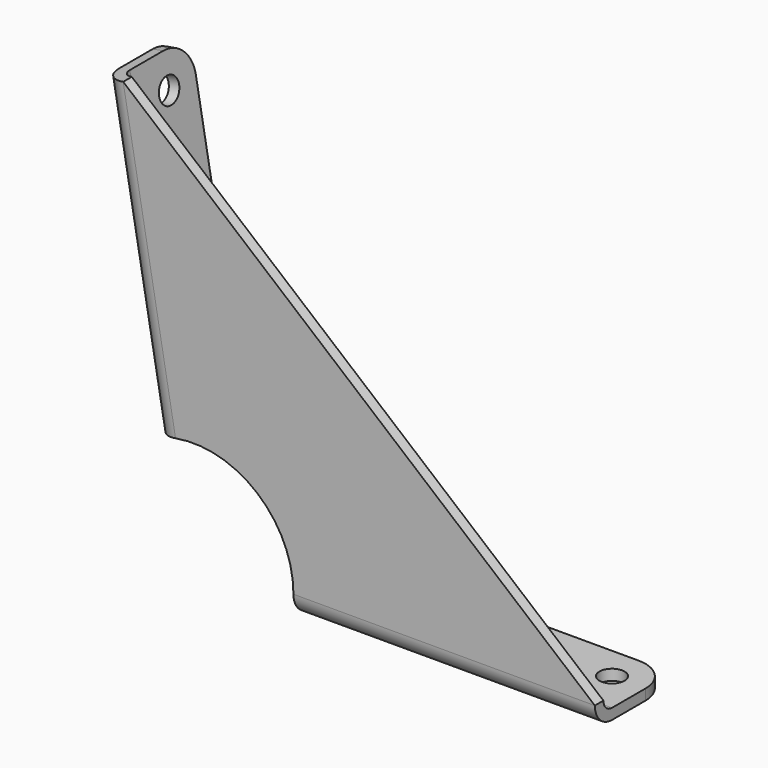
from build123d import *

# Parameters (mm, degrees)
F1_DEPTH    = 2.032
F2_W        = 57.15
F2_H        = 2.032
F3_ANGLE    = 90
F4_W        = 2.032
F4_H        = 57.15
F5_ANGLE    = 90
F6_DEPTH    = 14.2875
F7_R        = 6.35
F10_D       = 4.7625
F10_ON_F8_D = 4.7625


with BuildPart() as f1:
    # F0 (on Front) → F1 (new body)
    with BuildSketch(Plane.XZ):
        with BuildLine():
            Line((-13.2319911382, 75.0423507795), (-3.3079977846, 18.7605876949))
            ThreePointArc((-3.3079977846, 18.7605876949), (12.2451039645, 14.5931466414), (19.05, 0))
            Line((19.05, 0), (76.2, 0))
            Line((76.2, 0), (-13.2319911382, 75.0423507795))
        make_face()
    extrude(amount=F1_DEPTH)

    # F2 (on face) → F3 (revolve)
    with BuildSketch(Plane(origin=(0, 0, 0), x_dir=(1, 0, 0), z_dir=(0, 0, -1))):
        with Locations((47.625, 1.016)):
            Rectangle(F2_W, F2_H)
    revolve(axis=Axis((40.305102244, 2.032, 0), (1, 0, 0)), revolution_arc=F3_ANGLE)

    # F4 (on face) → F5 (revolve)
    with BuildSketch(Plane(origin=(0, 0, 0), x_dir=(0, -1, 0), z_dir=(-0.984807753, 0, -0.1736481777))):
        with Locations((1.016, 47.625)):
            Rectangle(F4_W, F4_H)
    revolve(axis=Axis((-5.7906206967, 2.032, 32.8402418815), (0.1736481777, 0, -0.984807753)), revolution_arc=F5_ANGLE)

    # F6 (add): faces of the model
    f6_faces = [f1.faces().sort_by_distance(p)[0] for p in [
        (47.625, 2.032, -3.048),
        (-11.2716884926, 2.032, 46.3721895917),
    ]]
    extrude(f6_faces, amount=F6_DEPTH)

    # F7
    f7_edges = [f1.edges().sort_by_distance(p)[0] for p in [
        (-16.233685, 16.3195, 74.513071),
        (-6.309692, 16.3195, 18.231308),
        (19.05, 16.3195, -3.048),
        (76.2, 16.3195, -3.048),
    ]]
    fillet(f7_edges, radius=F7_R)

    # F10 (through all)
    with Locations(Plane.XY.offset(-2.032)):
        with Locations((25.4, 9.9695), (69.85, 9.9695)):
            Hole(F10_D / 2)

    # F10 on F8 (through all)
    with Locations(Plane(origin=(-2.0011293541, 0, -0.352853097), x_dir=(0, 1, 0), z_dir=(0.984807753, 0, 0.1736481777))):
        with Locations((9.9695, 25.4), (9.9695, 69.85)):
            Hole(F10_ON_F8_D / 2)


solid = f1.part
